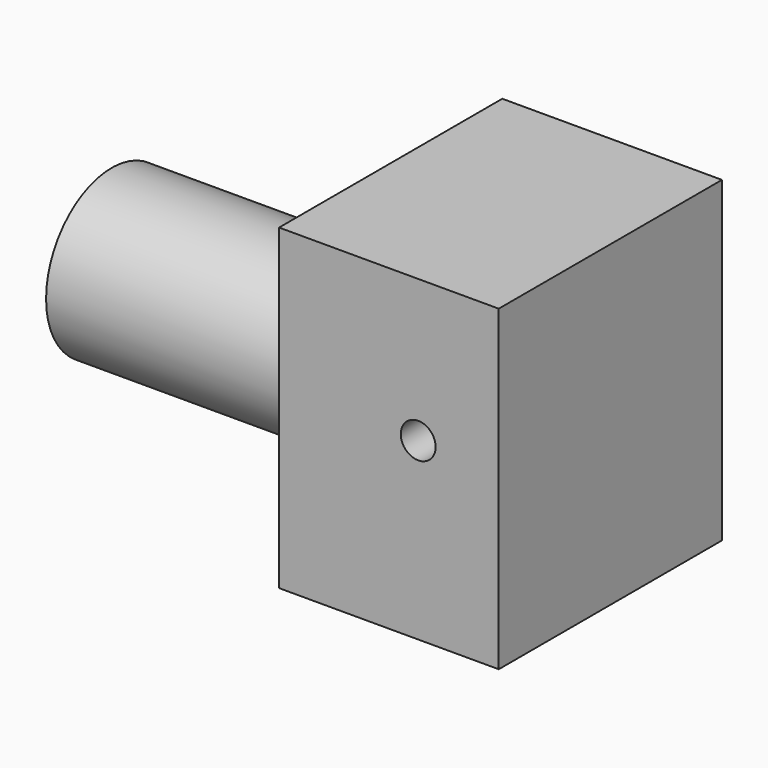
from build123d import *

# Parameters (mm, degrees)
F0_W     = 90.797476
F0_H     = 57.807724
F1_DEPTH = 25.4
F2_W     = 50.8
F2_H     = 57.807724
F2_R     = 14.940319
F3_DEPTH = 50.8
F5_D     = 6.35
F6_W     = 8.342021
F6_H     = 15.879793
F7_DEPTH = 25.4


with BuildPart() as f1:
    # F0 (on Front) → F1 (new body, symmetric)
    with BuildSketch(Plane.XZ):
        Rectangle(F0_W, F0_H)
    extrude(amount=F1_DEPTH, both=True)

    # F2 (on face) → F3 (cut)
    with BuildSketch(Plane(origin=(-45.398738, 0, 0), x_dir=(0, -1, 0), z_dir=(-1, 0, 0))):
        Rectangle(F2_W, F2_H)
        with Locations((0, -3.306166)):
            Circle(F2_R, mode=Mode.SUBTRACT)
    extrude(amount=-F3_DEPTH, mode=Mode.SUBTRACT)

    # F5 (through all)
    with Locations(Plane(origin=(0, 25.4, 0), x_dir=(-1, 0, 0), z_dir=(0, 1, 0))):
        with Locations((-30.731432, 2.991115)):
            Hole(F5_D / 2)

    # F6 (on face) → F7 (cut)
    with BuildSketch(Plane(origin=(0, 0, -28.903862), x_dir=(1, 0, 0), z_dir=(0, 0, -1))):
        with Locations((35.414792, 7.939896)):
            Rectangle(F6_W, F6_H)
    extrude(amount=-F7_DEPTH, mode=Mode.SUBTRACT)


solid = f1.part
